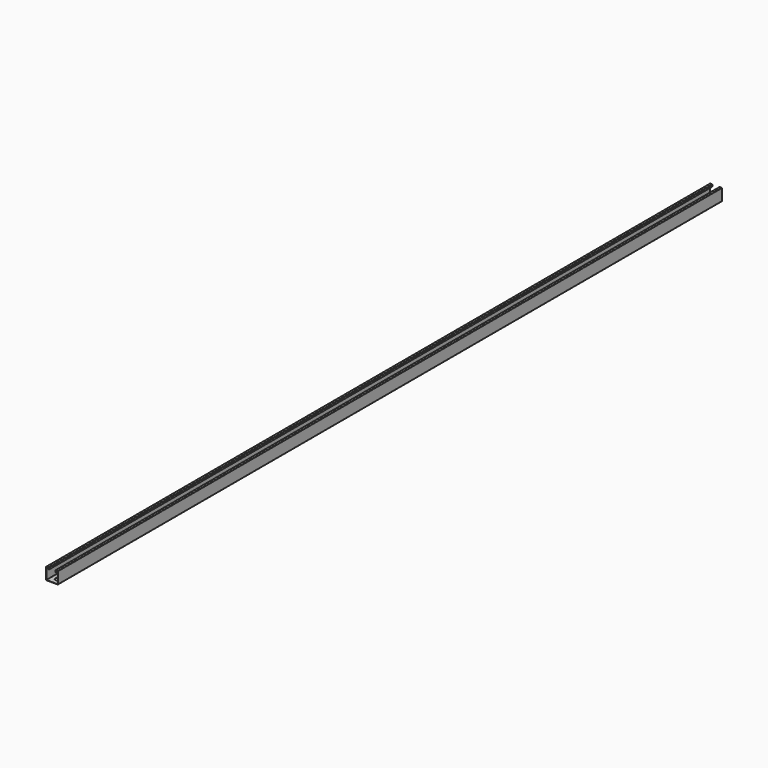
from build123d import *

# Parameters (mm, degrees)
F1_DEPTH = 1524
F3_DEPTH = 12.7


with BuildPart() as f1:
    # F0 (on Front) → F1 (new body, symmetric)
    with BuildSketch(Plane.XZ):
        with BuildLine():
            Line((-20.727359, -21.997359), (0, -21.997359))
            Line((0, -21.997359), (0, -20.981359))
            Line((0, -20.981359), (-20.727359, -20.981359))
            ThreePointArc((-20.727359, -20.981359), (-20.906964, -20.906964), (-20.981359, -20.727359))
            Line((-20.981359, -20.727359), (-20.981359, 20.727359))
            ThreePointArc((-20.981359, 20.727359), (-20.906964, 20.906964), (-20.727359, 20.981359))
            Line((-20.727359, 20.981359), (-13.742359, 20.981359))
            ThreePointArc((-13.742359, 20.981359), (-13.562754, 20.906964), (-13.488359, 20.727359))
            Line((-13.488359, 20.727359), (-13.488359, 14.853609))
            Line((-13.488359, 14.853609), (-12.472359, 14.853609))
            Line((-12.472359, 14.853609), (-12.472359, 20.727359))
            ThreePointArc((-12.472359, 20.727359), (-12.844333, 21.625384), (-13.742359, 21.997359))
            Line((-13.742359, 21.997359), (-20.727359, 21.997359))
            ThreePointArc((-20.727359, 21.997359), (-21.625384, 21.625384), (-21.997359, 20.727359))
            Line((-21.997359, 20.727359), (-21.997359, -20.727359))
            ThreePointArc((-21.997359, -20.727359), (-21.625384, -21.625384), (-20.727359, -21.997359))
        make_face()
    extrude(amount=F1_DEPTH, both=True)

    # F2 (on face) → F3 (cut, symmetric)
    with BuildSketch(Plane.XY.offset(-20.981359)):
        with BuildLine():
            Line((0, -1508.125), (0, -1479.55))
            ThreePointArc((0, -1479.55), (-5.051394, -1481.642356), (-7.14375, -1486.69375))
            Line((-7.14375, -1486.69375), (-7.14375, -1500.98125))
            ThreePointArc((-7.14375, -1500.98125), (-5.051394, -1506.032644), (0, -1508.125))
        make_face()
        with BuildLine():
            Line((0, -1457.325), (0, -1428.75))
            ThreePointArc((0, -1428.75), (-5.051394, -1430.842356), (-7.14375, -1435.89375))
            Line((-7.14375, -1435.89375), (-7.14375, -1450.18125))
            ThreePointArc((-7.14375, -1450.18125), (-5.051394, -1455.232644), (0, -1457.325))
        make_face()
        with BuildLine():
            Line((0, -1406.525), (0, -1377.95))
            ThreePointArc((0, -1377.95), (-5.051394, -1380.042356), (-7.14375, -1385.09375))
            Line((-7.14375, -1385.09375), (-7.14375, -1399.38125))
            ThreePointArc((-7.14375, -1399.38125), (-5.051394, -1404.432644), (0, -1406.525))
        make_face()
        with BuildLine():
            Line((0, -1355.725), (0, -1327.15))
            ThreePointArc((0, -1327.15), (-5.051394, -1329.242356), (-7.14375, -1334.29375))
            Line((-7.14375, -1334.29375), (-7.14375, -1348.58125))
            ThreePointArc((-7.14375, -1348.58125), (-5.051394, -1353.632644), (0, -1355.725))
        make_face()
        with BuildLine():
            Line((0, -1304.925), (0, -1276.35))
            ThreePointArc((0, -1276.35), (-5.051394, -1278.442356), (-7.14375, -1283.49375))
            Line((-7.14375, -1283.49375), (-7.14375, -1297.78125))
            ThreePointArc((-7.14375, -1297.78125), (-5.051394, -1302.832644), (0, -1304.925))
        make_face()
        with BuildLine():
            Line((0, -1254.125), (0, -1225.55))
            ThreePointArc((0, -1225.55), (-5.051394, -1227.642356), (-7.14375, -1232.69375))
            Line((-7.14375, -1232.69375), (-7.14375, -1246.98125))
            ThreePointArc((-7.14375, -1246.98125), (-5.051394, -1252.032644), (0, -1254.125))
        make_face()
        with BuildLine():
            Line((0, -1203.325), (0, -1174.75))
            ThreePointArc((0, -1174.75), (-5.051394, -1176.842356), (-7.14375, -1181.89375))
            Line((-7.14375, -1181.89375), (-7.14375, -1196.18125))
            ThreePointArc((-7.14375, -1196.18125), (-5.051394, -1201.232644), (0, -1203.325))
        make_face()
        with BuildLine():
            Line((0, -1152.525), (0, -1123.95))
            ThreePointArc((0, -1123.95), (-5.051394, -1126.042356), (-7.14375, -1131.09375))
            Line((-7.14375, -1131.09375), (-7.14375, -1145.38125))
            ThreePointArc((-7.14375, -1145.38125), (-5.051394, -1150.432644), (0, -1152.525))
        make_face()
        with BuildLine():
            Line((0, -1101.725), (0, -1073.15))
            ThreePointArc((0, -1073.15), (-5.051394, -1075.242356), (-7.14375, -1080.29375))
            Line((-7.14375, -1080.29375), (-7.14375, -1094.58125))
            ThreePointArc((-7.14375, -1094.58125), (-5.051394, -1099.632644), (0, -1101.725))
        make_face()
        with BuildLine():
            Line((0, -1050.925), (0, -1022.35))
            ThreePointArc((0, -1022.35), (-5.051394, -1024.442356), (-7.14375, -1029.49375))
            Line((-7.14375, -1029.49375), (-7.14375, -1043.78125))
            ThreePointArc((-7.14375, -1043.78125), (-5.051394, -1048.832644), (0, -1050.925))
        make_face()
        with BuildLine():
            Line((0, -1000.125), (0, -971.55))
            ThreePointArc((0, -971.55), (-5.051394, -973.642356), (-7.14375, -978.69375))
            Line((-7.14375, -978.69375), (-7.14375, -992.98125))
            ThreePointArc((-7.14375, -992.98125), (-5.051394, -998.032644), (0, -1000.125))
        make_face()
        with BuildLine():
            Line((0, -949.325), (0, -920.75))
            ThreePointArc((0, -920.75), (-5.051394, -922.842356), (-7.14375, -927.89375))
            Line((-7.14375, -927.89375), (-7.14375, -942.18125))
            ThreePointArc((-7.14375, -942.18125), (-5.051394, -947.232644), (0, -949.325))
        make_face()
        with BuildLine():
            Line((0, -898.525), (0, -869.95))
            ThreePointArc((0, -869.95), (-5.051394, -872.042356), (-7.14375, -877.09375))
            Line((-7.14375, -877.09375), (-7.14375, -891.38125))
            ThreePointArc((-7.14375, -891.38125), (-5.051394, -896.432644), (0, -898.525))
        make_face()
        with BuildLine():
            Line((0, -847.725), (0, -819.15))
            ThreePointArc((0, -819.15), (-5.051394, -821.242356), (-7.14375, -826.29375))
            Line((-7.14375, -826.29375), (-7.14375, -840.58125))
            ThreePointArc((-7.14375, -840.58125), (-5.051394, -845.632644), (0, -847.725))
        make_face()
        with BuildLine():
            Line((0, -796.925), (0, -768.35))
            ThreePointArc((0, -768.35), (-5.051394, -770.442356), (-7.14375, -775.49375))
            Line((-7.14375, -775.49375), (-7.14375, -789.78125))
            ThreePointArc((-7.14375, -789.78125), (-5.051394, -794.832644), (0, -796.925))
        make_face()
        with BuildLine():
            Line((0, -746.125), (0, -717.55))
            ThreePointArc((0, -717.55), (-5.051394, -719.642356), (-7.14375, -724.69375))
            Line((-7.14375, -724.69375), (-7.14375, -738.98125))
            ThreePointArc((-7.14375, -738.98125), (-5.051394, -744.032644), (0, -746.125))
        make_face()
        with BuildLine():
            Line((0, -695.325), (0, -666.75))
            ThreePointArc((0, -666.75), (-5.051394, -668.842356), (-7.14375, -673.89375))
            Line((-7.14375, -673.89375), (-7.14375, -688.18125))
            ThreePointArc((-7.14375, -688.18125), (-5.051394, -693.232644), (0, -695.325))
        make_face()
        with BuildLine():
            Line((0, -644.525), (0, -615.95))
            ThreePointArc((0, -615.95), (-5.051394, -618.042356), (-7.14375, -623.09375))
            Line((-7.14375, -623.09375), (-7.14375, -637.38125))
            ThreePointArc((-7.14375, -637.38125), (-5.051394, -642.432644), (0, -644.525))
        make_face()
        with BuildLine():
            Line((0, -593.725), (0, -565.15))
            ThreePointArc((0, -565.15), (-5.051394, -567.242356), (-7.14375, -572.29375))
            Line((-7.14375, -572.29375), (-7.14375, -586.58125))
            ThreePointArc((-7.14375, -586.58125), (-5.051394, -591.632644), (0, -593.725))
        make_face()
        with BuildLine():
            Line((0, -542.925), (0, -514.35))
            ThreePointArc((0, -514.35), (-5.051394, -516.442356), (-7.14375, -521.49375))
            Line((-7.14375, -521.49375), (-7.14375, -535.78125))
            ThreePointArc((-7.14375, -535.78125), (-5.051394, -540.832644), (0, -542.925))
        make_face()
        with BuildLine():
            Line((0, -492.125), (0, -463.55))
            ThreePointArc((0, -463.55), (-5.051394, -465.642356), (-7.14375, -470.69375))
            Line((-7.14375, -470.69375), (-7.14375, -484.98125))
            ThreePointArc((-7.14375, -484.98125), (-5.051394, -490.032644), (0, -492.125))
        make_face()
        with BuildLine():
            Line((0, -441.325), (0, -412.75))
            ThreePointArc((0, -412.75), (-5.051394, -414.842356), (-7.14375, -419.89375))
            Line((-7.14375, -419.89375), (-7.14375, -434.18125))
            ThreePointArc((-7.14375, -434.18125), (-5.051394, -439.232644), (0, -441.325))
        make_face()
        with BuildLine():
            Line((0, -390.525), (0, -361.95))
            ThreePointArc((0, -361.95), (-5.051394, -364.042356), (-7.14375, -369.09375))
            Line((-7.14375, -369.09375), (-7.14375, -383.38125))
            ThreePointArc((-7.14375, -383.38125), (-5.051394, -388.432644), (0, -390.525))
        make_face()
        with BuildLine():
            Line((0, -339.725), (0, -311.15))
            ThreePointArc((0, -311.15), (-5.051394, -313.242356), (-7.14375, -318.29375))
            Line((-7.14375, -318.29375), (-7.14375, -332.58125))
            ThreePointArc((-7.14375, -332.58125), (-5.051394, -337.632644), (0, -339.725))
        make_face()
        with BuildLine():
            Line((0, -288.925), (0, -260.35))
            ThreePointArc((0, -260.35), (-5.051394, -262.442356), (-7.14375, -267.49375))
            Line((-7.14375, -267.49375), (-7.14375, -281.78125))
            ThreePointArc((-7.14375, -281.78125), (-5.051394, -286.832644), (0, -288.925))
        make_face()
        with BuildLine():
            Line((0, -238.125), (0, -209.55))
            ThreePointArc((0, -209.55), (-5.051394, -211.642356), (-7.14375, -216.69375))
            Line((-7.14375, -216.69375), (-7.14375, -230.98125))
            ThreePointArc((-7.14375, -230.98125), (-5.051394, -236.032644), (0, -238.125))
        make_face()
        with BuildLine():
            Line((0, -187.325), (0, -158.75))
            ThreePointArc((0, -158.75), (-5.051394, -160.842356), (-7.14375, -165.89375))
            Line((-7.14375, -165.89375), (-7.14375, -180.18125))
            ThreePointArc((-7.14375, -180.18125), (-5.051394, -185.232644), (0, -187.325))
        make_face()
        with BuildLine():
            Line((0, -136.525), (0, -107.95))
            ThreePointArc((0, -107.95), (-5.051394, -110.042356), (-7.14375, -115.09375))
            Line((-7.14375, -115.09375), (-7.14375, -129.38125))
            ThreePointArc((-7.14375, -129.38125), (-5.051394, -134.432644), (0, -136.525))
        make_face()
        with BuildLine():
            Line((0, -85.725), (0, -57.15))
            ThreePointArc((0, -57.15), (-5.051394, -59.242356), (-7.14375, -64.29375))
            Line((-7.14375, -64.29375), (-7.14375, -78.58125))
            ThreePointArc((-7.14375, -78.58125), (-5.051394, -83.632644), (0, -85.725))
        make_face()
        with BuildLine():
            Line((0, -34.925), (0, -6.35))
            ThreePointArc((0, -6.35), (-5.051394, -8.442356), (-7.14375, -13.49375))
            Line((-7.14375, -13.49375), (-7.14375, -27.78125))
            ThreePointArc((-7.14375, -27.78125), (-5.051394, -32.832644), (0, -34.925))
        make_face()
        with BuildLine():
            Line((0, 15.875), (0, 44.45))
            ThreePointArc((0, 44.45), (-5.051394, 42.357644), (-7.14375, 37.30625))
            Line((-7.14375, 37.30625), (-7.14375, 23.01875))
            ThreePointArc((-7.14375, 23.01875), (-5.051394, 17.967356), (0, 15.875))
        make_face()
        with BuildLine():
            Line((0, 66.675), (0, 95.25))
            ThreePointArc((0, 95.25), (-5.051394, 93.157644), (-7.14375, 88.10625))
            Line((-7.14375, 88.10625), (-7.14375, 73.81875))
            ThreePointArc((-7.14375, 73.81875), (-5.051394, 68.767356), (0, 66.675))
        make_face()
        with BuildLine():
            Line((0, 117.475), (0, 146.05))
            ThreePointArc((0, 146.05), (-5.051394, 143.957644), (-7.14375, 138.90625))
            Line((-7.14375, 138.90625), (-7.14375, 124.61875))
            ThreePointArc((-7.14375, 124.61875), (-5.051394, 119.567356), (0, 117.475))
        make_face()
        with BuildLine():
            Line((0, 168.275), (0, 196.85))
            ThreePointArc((0, 196.85), (-5.051394, 194.757644), (-7.14375, 189.70625))
            Line((-7.14375, 189.70625), (-7.14375, 175.41875))
            ThreePointArc((-7.14375, 175.41875), (-5.051394, 170.367356), (0, 168.275))
        make_face()
        with BuildLine():
            Line((0, 219.075), (0, 247.65))
            ThreePointArc((0, 247.65), (-5.051394, 245.557644), (-7.14375, 240.50625))
            Line((-7.14375, 240.50625), (-7.14375, 226.21875))
            ThreePointArc((-7.14375, 226.21875), (-5.051394, 221.167356), (0, 219.075))
        make_face()
        with BuildLine():
            Line((0, 269.875), (0, 298.45))
            ThreePointArc((0, 298.45), (-5.051394, 296.357644), (-7.14375, 291.30625))
            Line((-7.14375, 291.30625), (-7.14375, 277.01875))
            ThreePointArc((-7.14375, 277.01875), (-5.051394, 271.967356), (0, 269.875))
        make_face()
        with BuildLine():
            Line((0, 320.675), (0, 349.25))
            ThreePointArc((0, 349.25), (-5.051394, 347.157644), (-7.14375, 342.10625))
            Line((-7.14375, 342.10625), (-7.14375, 327.81875))
            ThreePointArc((-7.14375, 327.81875), (-5.051394, 322.767356), (0, 320.675))
        make_face()
        with BuildLine():
            Line((0, 371.475), (0, 400.05))
            ThreePointArc((0, 400.05), (-5.051394, 397.957644), (-7.14375, 392.90625))
            Line((-7.14375, 392.90625), (-7.14375, 378.61875))
            ThreePointArc((-7.14375, 378.61875), (-5.051394, 373.567356), (0, 371.475))
        make_face()
        with BuildLine():
            Line((0, 422.275), (0, 450.85))
            ThreePointArc((0, 450.85), (-5.051394, 448.757644), (-7.14375, 443.70625))
            Line((-7.14375, 443.70625), (-7.14375, 429.41875))
            ThreePointArc((-7.14375, 429.41875), (-5.051394, 424.367356), (0, 422.275))
        make_face()
        with BuildLine():
            Line((0, 473.075), (0, 501.65))
            ThreePointArc((0, 501.65), (-5.051394, 499.557644), (-7.14375, 494.50625))
            Line((-7.14375, 494.50625), (-7.14375, 480.21875))
            ThreePointArc((-7.14375, 480.21875), (-5.051394, 475.167356), (0, 473.075))
        make_face()
        with BuildLine():
            Line((0, 523.875), (0, 552.45))
            ThreePointArc((0, 552.45), (-5.051394, 550.357644), (-7.14375, 545.30625))
            Line((-7.14375, 545.30625), (-7.14375, 531.01875))
            ThreePointArc((-7.14375, 531.01875), (-5.051394, 525.967356), (0, 523.875))
        make_face()
        with BuildLine():
            Line((0, 574.675), (0, 603.25))
            ThreePointArc((0, 603.25), (-5.051394, 601.157644), (-7.14375, 596.10625))
            Line((-7.14375, 596.10625), (-7.14375, 581.81875))
            ThreePointArc((-7.14375, 581.81875), (-5.051394, 576.767356), (0, 574.675))
        make_face()
        with BuildLine():
            Line((0, 625.475), (0, 654.05))
            ThreePointArc((0, 654.05), (-5.051394, 651.957644), (-7.14375, 646.90625))
            Line((-7.14375, 646.90625), (-7.14375, 632.61875))
            ThreePointArc((-7.14375, 632.61875), (-5.051394, 627.567356), (0, 625.475))
        make_face()
        with BuildLine():
            Line((0, 676.275), (0, 704.85))
            ThreePointArc((0, 704.85), (-5.051394, 702.757644), (-7.14375, 697.70625))
            Line((-7.14375, 697.70625), (-7.14375, 683.41875))
            ThreePointArc((-7.14375, 683.41875), (-5.051394, 678.367356), (0, 676.275))
        make_face()
        with BuildLine():
            Line((0, 727.075), (0, 755.65))
            ThreePointArc((0, 755.65), (-5.051394, 753.557644), (-7.14375, 748.50625))
            Line((-7.14375, 748.50625), (-7.14375, 734.21875))
            ThreePointArc((-7.14375, 734.21875), (-5.051394, 729.167356), (0, 727.075))
        make_face()
        with BuildLine():
            Line((0, 777.875), (0, 806.45))
            ThreePointArc((0, 806.45), (-5.051394, 804.357644), (-7.14375, 799.30625))
            Line((-7.14375, 799.30625), (-7.14375, 785.01875))
            ThreePointArc((-7.14375, 785.01875), (-5.051394, 779.967356), (0, 777.875))
        make_face()
        with BuildLine():
            Line((0, 828.675), (0, 857.25))
            ThreePointArc((0, 857.25), (-5.051394, 855.157644), (-7.14375, 850.10625))
            Line((-7.14375, 850.10625), (-7.14375, 835.81875))
            ThreePointArc((-7.14375, 835.81875), (-5.051394, 830.767356), (0, 828.675))
        make_face()
        with BuildLine():
            Line((0, 879.475), (0, 908.05))
            ThreePointArc((0, 908.05), (-5.051394, 905.957644), (-7.14375, 900.90625))
            Line((-7.14375, 900.90625), (-7.14375, 886.61875))
            ThreePointArc((-7.14375, 886.61875), (-5.051394, 881.567356), (0, 879.475))
        make_face()
        with BuildLine():
            Line((0, 930.275), (0, 958.85))
            ThreePointArc((0, 958.85), (-5.051394, 956.757644), (-7.14375, 951.70625))
            Line((-7.14375, 951.70625), (-7.14375, 937.41875))
            ThreePointArc((-7.14375, 937.41875), (-5.051394, 932.367356), (0, 930.275))
        make_face()
        with BuildLine():
            Line((0, 981.075), (0, 1009.65))
            ThreePointArc((0, 1009.65), (-5.051394, 1007.557644), (-7.14375, 1002.50625))
            Line((-7.14375, 1002.50625), (-7.14375, 988.21875))
            ThreePointArc((-7.14375, 988.21875), (-5.051394, 983.167356), (0, 981.075))
        make_face()
        with BuildLine():
            Line((0, 1031.875), (0, 1060.45))
            ThreePointArc((0, 1060.45), (-5.051394, 1058.357644), (-7.14375, 1053.30625))
            Line((-7.14375, 1053.30625), (-7.14375, 1039.01875))
            ThreePointArc((-7.14375, 1039.01875), (-5.051394, 1033.967356), (0, 1031.875))
        make_face()
        with BuildLine():
            Line((0, 1082.675), (0, 1111.25))
            ThreePointArc((0, 1111.25), (-5.051394, 1109.157644), (-7.14375, 1104.10625))
            Line((-7.14375, 1104.10625), (-7.14375, 1089.81875))
            ThreePointArc((-7.14375, 1089.81875), (-5.051394, 1084.767356), (0, 1082.675))
        make_face()
        with BuildLine():
            Line((0, 1133.475), (0, 1162.05))
            ThreePointArc((0, 1162.05), (-5.051394, 1159.957644), (-7.14375, 1154.90625))
            Line((-7.14375, 1154.90625), (-7.14375, 1140.61875))
            ThreePointArc((-7.14375, 1140.61875), (-5.051394, 1135.567356), (0, 1133.475))
        make_face()
        with BuildLine():
            Line((0, 1184.275), (0, 1212.85))
            ThreePointArc((0, 1212.85), (-5.051394, 1210.757644), (-7.14375, 1205.70625))
            Line((-7.14375, 1205.70625), (-7.14375, 1191.41875))
            ThreePointArc((-7.14375, 1191.41875), (-5.051394, 1186.367356), (0, 1184.275))
        make_face()
        with BuildLine():
            Line((0, 1235.075), (0, 1263.65))
            ThreePointArc((0, 1263.65), (-5.051394, 1261.557644), (-7.14375, 1256.50625))
            Line((-7.14375, 1256.50625), (-7.14375, 1242.21875))
            ThreePointArc((-7.14375, 1242.21875), (-5.051394, 1237.167356), (0, 1235.075))
        make_face()
        with BuildLine():
            Line((0, 1285.875), (0, 1314.45))
            ThreePointArc((0, 1314.45), (-5.051394, 1312.357644), (-7.14375, 1307.30625))
            Line((-7.14375, 1307.30625), (-7.14375, 1293.01875))
            ThreePointArc((-7.14375, 1293.01875), (-5.051394, 1287.967356), (0, 1285.875))
        make_face()
        with BuildLine():
            Line((0, 1336.675), (0, 1365.25))
            ThreePointArc((0, 1365.25), (-5.051394, 1363.157644), (-7.14375, 1358.10625))
            Line((-7.14375, 1358.10625), (-7.14375, 1343.81875))
            ThreePointArc((-7.14375, 1343.81875), (-5.051394, 1338.767356), (0, 1336.675))
        make_face()
        with BuildLine():
            Line((0, 1387.475), (0, 1416.05))
            ThreePointArc((0, 1416.05), (-5.051394, 1413.957644), (-7.14375, 1408.90625))
            Line((-7.14375, 1408.90625), (-7.14375, 1394.61875))
            ThreePointArc((-7.14375, 1394.61875), (-5.051394, 1389.567356), (0, 1387.475))
        make_face()
        with BuildLine():
            Line((0, 1438.275), (0, 1466.85))
            ThreePointArc((0, 1466.85), (-5.051394, 1464.757644), (-7.14375, 1459.70625))
            Line((-7.14375, 1459.70625), (-7.14375, 1445.41875))
            ThreePointArc((-7.14375, 1445.41875), (-5.051394, 1440.367356), (0, 1438.275))
        make_face()
        with BuildLine():
            Line((0, 1489.075), (0, 1517.65))
            ThreePointArc((0, 1517.65), (-5.051394, 1515.557644), (-7.14375, 1510.50625))
            Line((-7.14375, 1510.50625), (-7.14375, 1496.21875))
            ThreePointArc((-7.14375, 1496.21875), (-5.051394, 1491.167356), (0, 1489.075))
        make_face()
    extrude(amount=F3_DEPTH, both=True, mode=Mode.SUBTRACT)

    # F4: F1 across plane


with BuildPart() as f1_1:
    add(f1.part)
    add(f1.part.mirror(Plane.YZ))


solid = f1_1.part
